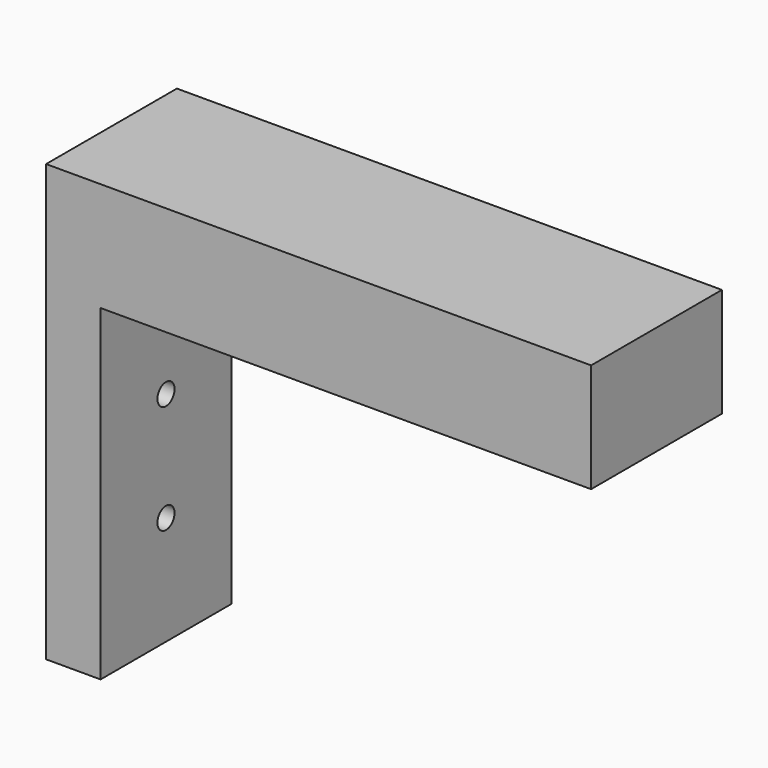
from build123d import *

# Parameters (mm, degrees)
F1_DEPTH = 38.1
F2_R     = 2.4892
F3_DEPTH = 12.701


with BuildPart() as f1:
    # F0 (on Front) → F1 (new body)
    with BuildSketch(Plane.XZ):
        Polygon((0, 101.6), (0, 0), (12.7, 0), (12.7, 76.2), (127, 76.2), (127, 101.6), align=None)
    extrude(amount=F1_DEPTH)

    # F2 (on face) → F3 (cut, through all)
    with BuildSketch(Plane.YZ.offset(12.7)):
        with Locations((-19.05, 50.8)):
            Circle(F2_R)
        with Locations((-19.05, 25.4)):
            Circle(F2_R)
    extrude(amount=-F3_DEPTH, mode=Mode.SUBTRACT)


solid = f1.part
